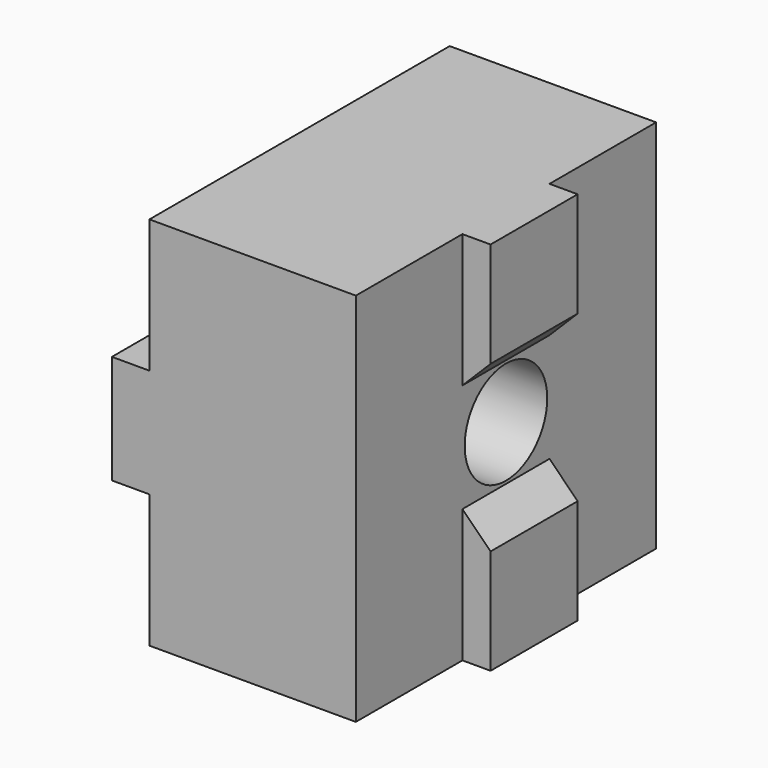
from build123d import *

# Parameters (mm, degrees)
PAD035_DEPTH         = 10
SKETCH097_W          = 2
SKETCH097_H          = 7.1
POCKET055_DEPTH      = 10.001
POCKET055_DEPTH_BACK = 10.001
SKETCH098_R          = 2.75
POCKET056_DEPTH      = 2.001
POCKET056_DEPTH_BACK = 12.501


with BuildPart() as part:
    # Sketch096 → Pad035 (new body, symmetric)
    with BuildSketch(Plane.XY):
        Polygon((-2, 10), (11, 10), (11, 2.9), (12.5, 2.9), (12.5, -2.9), (11, -2.9), (11, -10), (-2, -10), (-2, -2.9), (0, -2.9), (0, 2.9), (-2, 2.9), align=None)
    extrude(amount=PAD035_DEPTH, both=True)

    # Sketch097 → Pocket055 (cut, two sides)
    with BuildSketch(Plane.XZ) as pocket055_sk:
        with Locations((-1, -6.45)):
            Rectangle(SKETCH097_W, SKETCH097_H)
        with Locations((-1, 6.45)):
            Rectangle(SKETCH097_W, SKETCH097_H)
        Polygon((11, 2.9), (12.5, 4.4), (12.5, -4.4), (11, -2.9), align=None)
    extrude(amount=-POCKET055_DEPTH, mode=Mode.SUBTRACT)
    extrude(pocket055_sk.sketch, amount=POCKET055_DEPTH_BACK, mode=Mode.SUBTRACT)

    # Sketch098 → Pocket056 (cut, two sides)
    with BuildSketch(Plane.YZ) as pocket056_sk:
        Circle(SKETCH098_R)
    extrude(amount=-POCKET056_DEPTH, mode=Mode.SUBTRACT)
    extrude(pocket056_sk.sketch, amount=POCKET056_DEPTH_BACK, mode=Mode.SUBTRACT)


with BuildPart() as part_1:
    # Body022016 placement: moved
    add(part.part.moved(Location((137, 0, -132))))


solid = part_1.part
